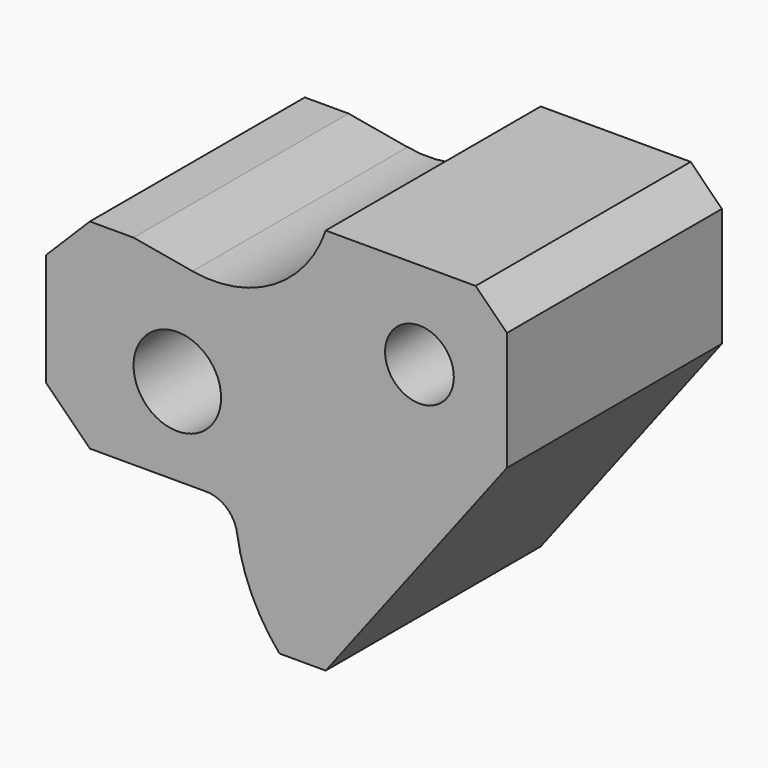
from build123d import *

# Parameters (mm, degrees)
F0_R     = 7
F1_DEPTH = 43
F2_R     = 5.5
F3_DEPTH = 43.001


with BuildPart() as f1:
    # F0 (on Front) → F1 (new body)
    with BuildSketch(Plane.XZ):
        with BuildLine():
            Line((-14, 18), (-21, 11))
            Line((-21, 11), (-21, -7))
            Line((-21, -7), (-14, -14))
            Line((-14, -14), (4.616354, -14))
            ThreePointArc((4.616354, -14), (7.88159, -15.213414), (9.561993, -18.264706))
            ThreePointArc((9.561993, -18.264706), (11.898823, -26.115672), (16.337795, -33))
            Line((16.337795, -33), (23.746698, -33))
            Line((23.746698, -33), (52.746698, 5))
            Line((52.746698, 5), (52.746698, 24))
            Line((52.746698, 24), (47.746698, 29))
            Line((47.746698, 29), (23.746698, 29))
            ThreePointArc((23.746698, 29), (15.440895, 18.713813), (2.43554, 16.33626))
            Line((2.43554, 16.33626), (-7, 18))
            Line((-7, 18), (-14, 18))
        make_face()
        Circle(F0_R, mode=Mode.SUBTRACT)
    extrude(amount=F1_DEPTH)

    # F2 (on face) → F3 (cut, through all)
    with BuildSketch(Plane.XZ.offset(43)):
        with Locations((38.746698, 15)):
            Circle(F2_R)
    extrude(amount=-F3_DEPTH, mode=Mode.SUBTRACT)


solid = f1.part
